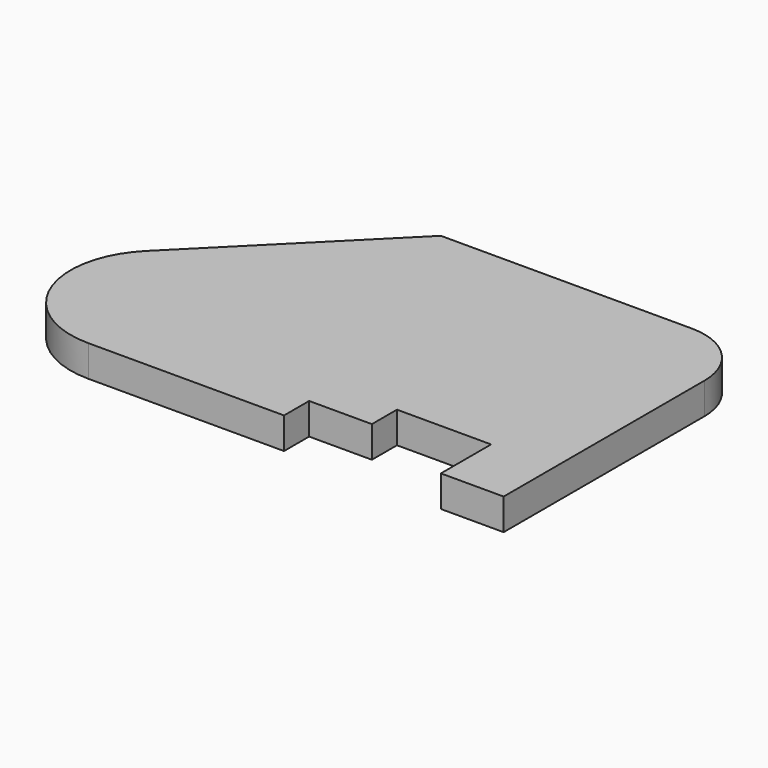
from build123d import *

# Parameters (mm, degrees)
F1_DEPTH = 5


with BuildPart() as f1:
    # F0 (on Top) → F1 (new body)
    with BuildSketch(Plane.XY):
        with BuildLine():
            Line((-10, 0), (0, 0))
            Line((0, 0), (0, 40))
            ThreePointArc((0, 40), (-2.928932, 47.071068), (-10, 50))
            Line((-10, 50), (-50, 50))
            Line((-50, 50), (-76.100505, 23.899495))
            ThreePointArc((-76.100505, 23.899495), (-79.135324, 8.642432), (-66.20101, 0))
            Line((-66.20101, 0), (-35, 0))
            Line((-35, 0), (-35, 5))
            Line((-35, 5), (-25, 5))
            Line((-25, 5), (-25, 10))
            Line((-25, 10), (-10, 10))
            Line((-10, 10), (-10, 0))
        make_face()
    extrude(amount=F1_DEPTH)


solid = f1.part
